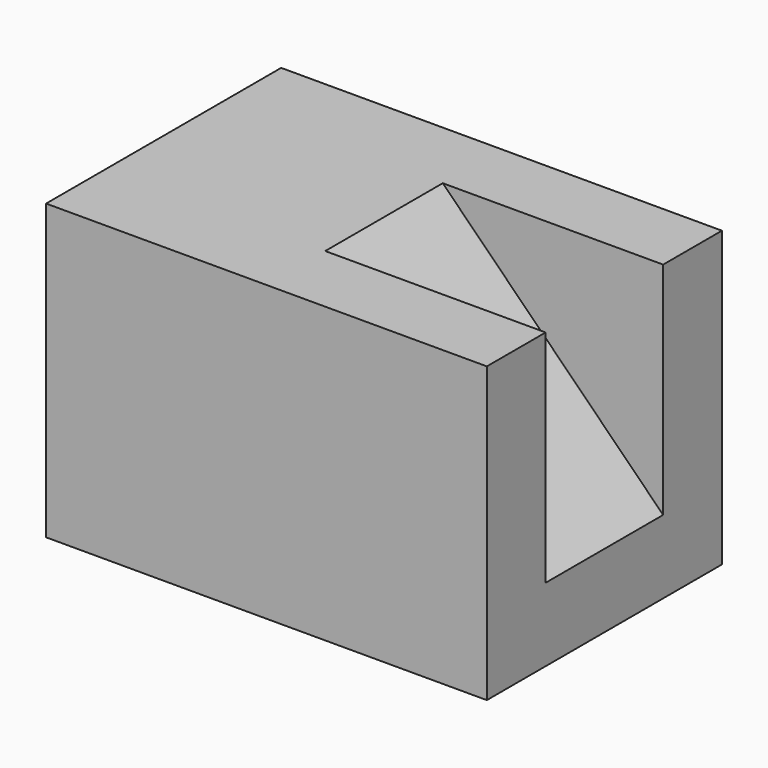
from build123d import *

# Parameters (mm, degrees)
F1_DEPTH = 40
F3_DEPTH = 40


with BuildPart() as f1:
    # F0 (on Front) → F1 (new body)
    with BuildSketch(Plane.XZ):
        Polygon((-20.359407, 0), (39.640593, 0), (39.640593, 10), (9.640593, 40), (-20.359407, 40), align=None)
    extrude(amount=-F1_DEPTH)

    # F2 (on face) → F3 (join)
    with BuildSketch(Plane(origin=(0, 0, 0), x_dir=(1, 0, 0), z_dir=(0, 0, -1))):
        Polygon((39.640593, -10), (39.640593, 0), (2.79917, 0), (2.79917, -40), (39.640593, -40), (39.640593, -30), (9.640593, -30), (9.640593, -10), align=None)
    extrude(amount=-F3_DEPTH)


solid = f1.part
